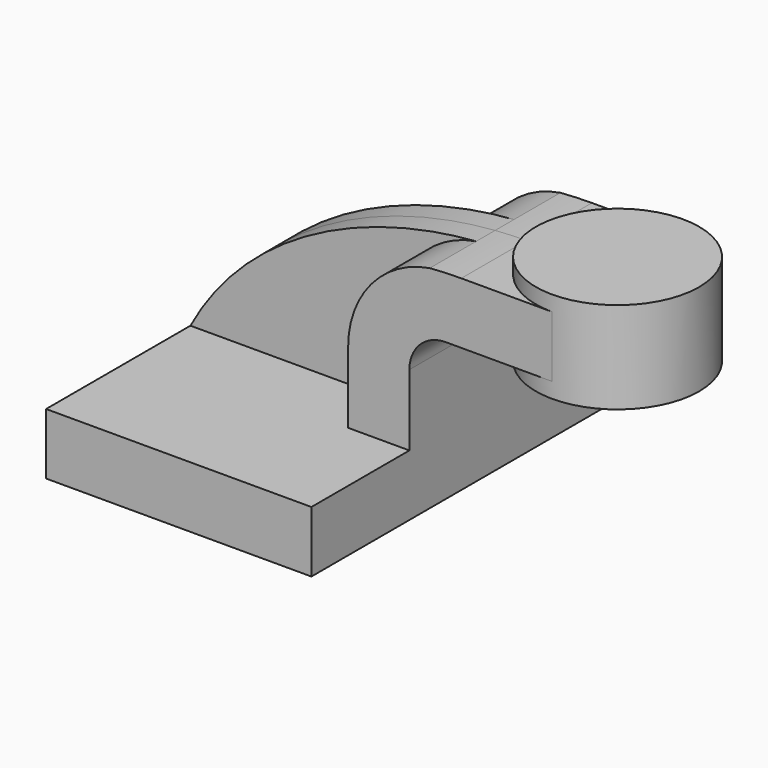
from build123d import *

# Parameters (mm, degrees)
F1_DEPTH = 63.5
F0_W     = 25.4
F0_H     = 19.05
F2_DEPTH = 25.4
F3_DEPTH = 7.366


with BuildPart() as f1:
    # F0 (on Front) → F1 (new body, symmetric)
    with BuildSketch(Plane.XZ):
        Polygon((22.225, 9.525), (-41.275, 9.525), (-41.275, -9.525), (41.275, -9.525), (41.275, 9.525), align=None)
    extrude(amount=F1_DEPTH, both=True)

    # F0 (on Front) → F2 (join, symmetric)
    with BuildSketch(Plane.XZ):
        with BuildLine():
            Line((22.225, 31.6498798487), (22.225, 9.525))
            Line((22.225, 9.525), (41.275, 9.525))
            Line((41.275, 9.525), (41.275, 31.6498798487))
            ThreePointArc((41.275, 31.6498798487), (44.5628201513, 39.5873798487), (52.5003201513, 42.8752))
            Line((52.5003201513, 42.8752), (60.325, 42.8752))
            Line((60.325, 42.8752), (60.325, 61.9252))
            Line((60.325, 61.9252), (57.422989761, 61.9252))
            add(Edge.make_bspline(
                [(47.6310352759, 61.5310624736), (50.9065534115, 61.7825559935), (54.1756772535, 61.9134758207), (57.422989761, 61.9252)],
                knots=[102.2694518038, 102.2694518038, 102.2694518038, 102.2694518038, 111.7455777331, 111.7455777331, 111.7455777331, 111.7455777331], degree=3))
            ThreePointArc((47.6310352759, 61.5310624736), (29.4350413889, 51.2607932868), (22.225, 31.6498798487))
        make_face()
        with Locations((73.025, 52.4002)):
            Rectangle(F0_W, F0_H)
    extrude(amount=F2_DEPTH, both=True)

    # F0 (on Front) → F3 (join, symmetric)
    with BuildSketch(Plane.XZ):
        with BuildLine():
            add(Edge.make_bspline(
                [(-41.275, 9.525), (-23.8146628268, 42.0589220726), (12.2805717425, 58.8168621141), (47.6310352759, 61.5310624736)],
                knots=[0, 0, 0, 0, 102.2694518038, 102.2694518038, 102.2694518038, 102.2694518038], degree=3))
            Line((-41.275, 9.525), (22.225, 9.525))
            Line((22.225, 9.525), (22.225, 31.6498798487))
            ThreePointArc((22.225, 31.6498798487), (29.4350413889, 51.2607932868), (47.6310352759, 61.5310624736))
        make_face()
    extrude(amount=F3_DEPTH, both=True)

    # F0 (on Front) → F4 (revolve)
    with BuildSketch(Plane.XZ):
        Polygon((85.725, 66.675), (85.725, 61.9252), (85.725, 42.8752), (85.725, 38.1), (111.125, 38.1), (111.125, 66.675), align=None)
    revolve(axis=Axis((85.725, 0, 52.3875), (0, 0, -1)))


solid = f1.part
